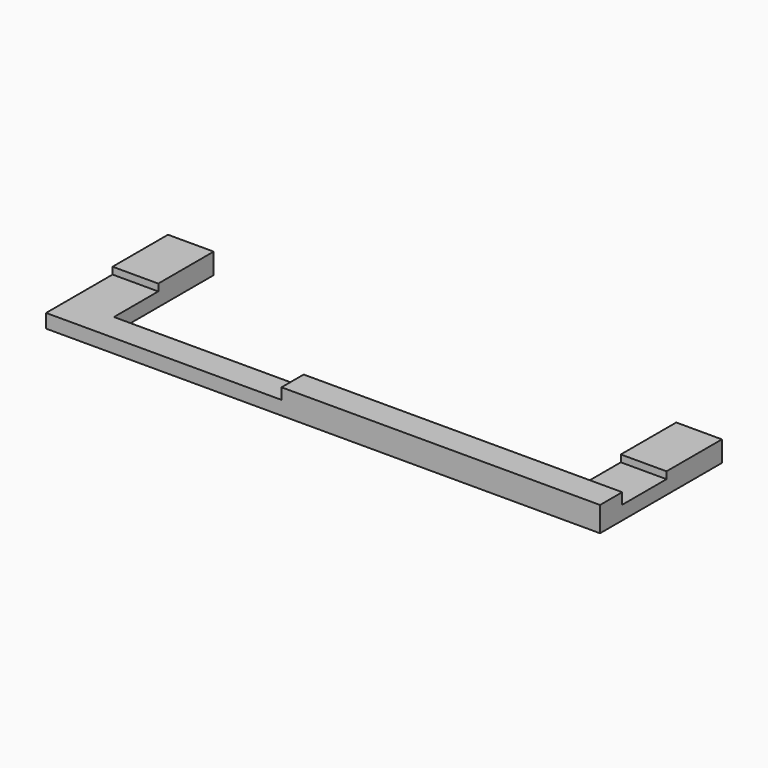
from build123d import *

# Parameters (mm, degrees)
F1_DEPTH = 1.5
F2_W     = 3.3
F2_H     = 4
F2_W_2   = 17
F2_H_2   = 6
F3_DEPTH = 0.5
F4_W     = 23
F4_H     = 2
F5_DEPTH = 0.3


with BuildPart() as f1:
    # F0 (on Top) → F1 (new body)
    with BuildSketch(Plane.XY):
        Polygon((0, 11), (0, 0), (40, 0), (40, 11), (36.7, 11), (36.7, 2), (3.3, 2), (3.3, 11), align=None)
    extrude(amount=F1_DEPTH)

    # F2 (on face) → F3 (cut)
    with BuildSketch(Plane.XY.offset(1.5)):
        with Locations((38.35, 4)):
            Rectangle(F2_W, F2_H)
        with Locations((8.5, 3)):
            Rectangle(F2_W_2, F2_H_2)
    extrude(amount=-F3_DEPTH, mode=Mode.SUBTRACT)

    # F4 (on face) → F5 (join)
    with BuildSketch(Plane.XY.offset(1.5)):
        with Locations((28.5, 1)):
            Rectangle(F4_W, F4_H)
    extrude(amount=F5_DEPTH)


solid = f1.part
